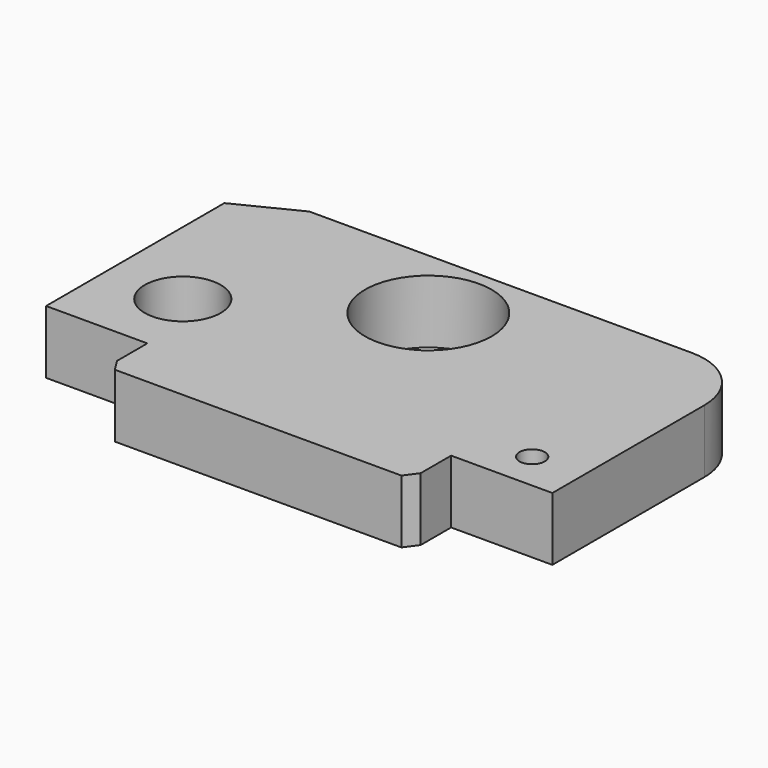
from build123d import *

# Parameters (mm, degrees)
F0_R     = 15
F0_R_2   = 5
F0_R_3   = 25
F1_DEPTH = 25


with BuildPart() as f1:
    # F0 (on Top) → F1 (new body)
    with BuildSketch(Plane.XY):
        with BuildLine():
            Line((-70.938008, -68.265357), (-67.75825, -73.265357))
            Line((-67.75825, -73.265357), (45.419062, -73.265357))
            Line((45.419062, -73.265357), (49.061992, -68.265357))
            Line((49.061992, -68.265357), (49.061992, -53.265357))
            Line((49.061992, -53.265357), (89.061992, -53.265357))
            Line((89.061992, -53.265357), (89.061992, 21.734643))
            ThreePointArc((89.061992, 21.734643), (81.739661, 39.412313), (64.061992, 46.734643))
            Line((64.061992, 46.734643), (-86.938008, 46.734643))
            Line((-86.938008, 46.734643), (-110.938008, 34.734643))
            Line((-110.938008, 34.734643), (-110.938008, -53.265357))
            Line((-110.938008, -53.265357), (-70.938008, -53.265357))
            Line((-70.938008, -53.265357), (-70.938008, -68.265357))
        make_face()
        with Locations((-80.938008, -23.265357)):
            Circle(F0_R, mode=Mode.SUBTRACT)
        with Locations((69.061992, -38.265357)):
            Circle(F0_R_2, mode=Mode.SUBTRACT)
        with Locations((-15.938008, 16.734643)):
            Circle(F0_R_3, mode=Mode.SUBTRACT)
    extrude(amount=F1_DEPTH)


solid = f1.part
